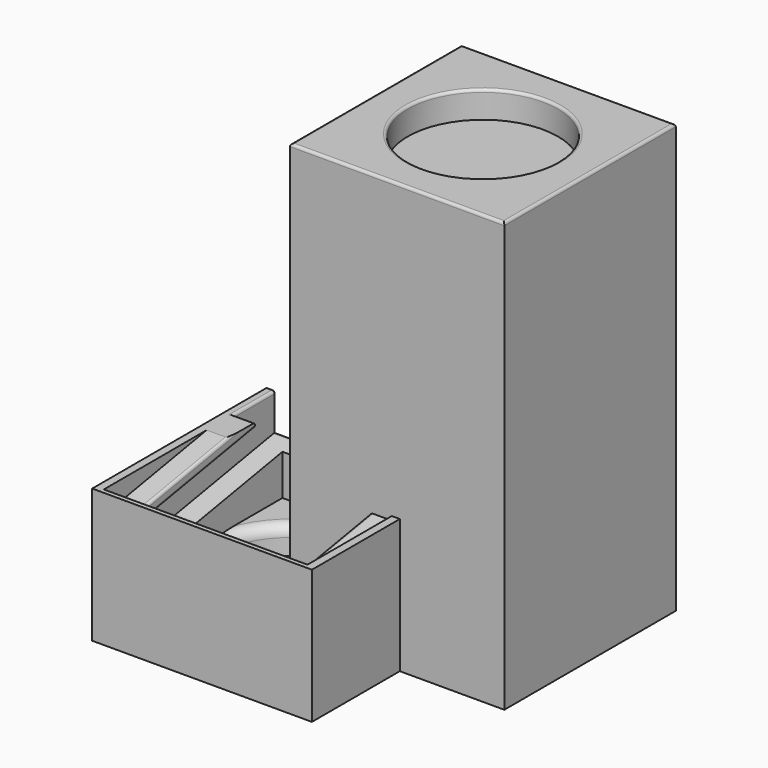
from build123d import *

# Parameters (mm, degrees)
CYLINDER_R             = 28
CYLINDER_DEPTH         = 10
BOX003_W               = 78
BOX003_H               = 78
BOX003_DEPTH           = 18
BOX004_W               = 80.5
BOX004_H               = 80.5
BOX004_DEPTH           = 18
BOX_W                  = 82
BOX_H                  = 82
BOX_DEPTH              = 20
FILLET_1_R             = 4
FILLET_2_R             = 1
BOX011_W               = 60
BOX011_H               = 70
BOX011_DEPTH           = 90
BOX012_W               = 76
BOX012_H               = 90
BOX012_DEPTH           = 15
BOX012_PLACEMENT_ANGLE = 10
BOX010_W               = 76
BOX010_H               = 90
BOX010_DEPTH           = 15
BOX010_PLACEMENT_ANGLE = 10
BOX008_W               = 78
BOX008_H               = 78
BOX008_DEPTH           = 18
BOX009_W               = 80.5
BOX009_H               = 80.5
BOX009_DEPTH           = 18
BOX007_W               = 82
BOX007_H               = 82
BOX007_DEPTH           = 50
FILLET001_R            = 1
BOX016_W               = 3
BOX016_H               = 3
BOX016_DEPTH           = 126
BOX017_W               = 3
BOX017_H               = 3
BOX017_DEPTH           = 126
BOX018_W               = 3
BOX018_H               = 3
BOX018_DEPTH           = 126
BOX019_W               = 3
BOX019_H               = 3
BOX019_DEPTH           = 126
BOX013_W               = 78.5
BOX013_H               = 78.5
BOX013_DEPTH           = 20
CYLINDER001_R          = 28
CYLINDER001_DEPTH      = 10
BOX014_W               = 75.4
BOX014_H               = 75.4
BOX014_DEPTH           = 126
BOX005_W               = 80
BOX005_H               = 80
BOX005_DEPTH           = 160
FILLET002_R            = 1


with BuildPart() as cylinder:
    # Cylinder → Cylinder (new body)
    with BuildSketch(Plane.XY.offset(10)):
        Circle(CYLINDER_R)
    extrude(amount=CYLINDER_DEPTH)


with BuildPart() as cube003:
    # Box003 → Box003 (new body)
    with BuildSketch(Plane(origin=(-39, -39, 0), x_dir=(1, 0, 0), z_dir=(0, 0, 1))):
        with Locations((39, 39)):
            Rectangle(BOX003_W, BOX003_H)
    extrude(amount=BOX003_DEPTH)


with BuildPart() as cube004:
    # Box004 → Box004 (new body)
    with BuildSketch(Plane(origin=(-40.25, -40.25, 0), x_dir=(1, 0, 0), z_dir=(0, 0, 1))):
        with Locations((40.25, 40.25)):
            Rectangle(BOX004_W, BOX004_H)
    extrude(amount=BOX004_DEPTH)


with BuildPart() as obj1:
    # Box → Box (new body)
    with BuildSketch(Plane(origin=(-41, -41, 0), x_dir=(1, 0, 0), z_dir=(0, 0, 1))):
        with Locations((41, 41)):
            Rectangle(BOX_W, BOX_H)
    extrude(amount=BOX_DEPTH)

    # Cut: cut Cube004
    add(cube004.part, mode=Mode.SUBTRACT)

    # Fusion: union Cube003
    add(cube003.part)

    # Cut001: cut Cylinder
    add(cylinder.part, mode=Mode.SUBTRACT)

    # Fillet 1
    fillet_1_edges = [obj1.edges().sort_by_distance(p)[0] for p in [
        (-28, 0, 20),
    ]]
    fillet(fillet_1_edges, radius=FILLET_1_R)

    # Fillet 2
    fillet_2_edges = [obj1.edges().sort_by_distance(p)[0] for p in [
        (-41, 0, 20),
        (0, -41, 20),
        (0, 41, 20),
        (41, 0, 20),
    ]]
    fillet(fillet_2_edges, radius=FILLET_2_R)


with BuildPart() as cube010:
    # Box011 → Box011 (new body)
    with BuildSketch(Plane(origin=(-30, -36, 2), x_dir=(1, 0, 0), z_dir=(0, 0, 1))):
        with Locations((30, 35)):
            Rectangle(BOX011_W, BOX011_H)
    extrude(amount=BOX011_DEPTH)


with BuildPart() as cube011:
    # Box012 → Box012 (new body)
    with BuildSketch(Plane.XY):
        with Locations((38, 45)):
            Rectangle(BOX012_W, BOX012_H)
    extrude(amount=BOX012_DEPTH)


with BuildPart() as cube011_1:
    # Box012 placement: moved
    add(cube011.part.moved(Location((-38, -37.869524, 41.798813))).rotate(Axis((-38, -37.869524, 41.798813), (1, 0, 0)), BOX012_PLACEMENT_ANGLE))


with BuildPart() as fusion002:
    # Box010 → Box010 (new body)
    with BuildSketch(Plane.XY):
        with Locations((38, 45)):
            Rectangle(BOX010_W, BOX010_H)
    extrude(amount=BOX010_DEPTH)


with BuildPart() as fusion002_1:
    # Box010 placement: moved
    add(fusion002.part.moved(Location((-38, -33.585401, 23.261114))).rotate(Axis((-38, -33.585401, 23.261114), (1, 0, 0)), BOX010_PLACEMENT_ANGLE))

    # Fusion002: union Cube010, Cube011
    add(cube010.part)
    add(cube011_1.part)


with BuildPart() as cube007:
    # Box008 → Box008 (new body)
    with BuildSketch(Plane(origin=(-39, -39, 0), x_dir=(1, 0, 0), z_dir=(0, 0, 1))):
        with Locations((39, 39)):
            Rectangle(BOX008_W, BOX008_H)
    extrude(amount=BOX008_DEPTH)


with BuildPart() as cube008:
    # Box009 → Box009 (new body)
    with BuildSketch(Plane(origin=(-40.25, -40.25, 0), x_dir=(1, 0, 0), z_dir=(0, 0, 1))):
        with Locations((40.25, 40.25)):
            Rectangle(BOX009_W, BOX009_H)
    extrude(amount=BOX009_DEPTH)


with BuildPart() as obj2:
    # Box007 → Box007 (new body)
    with BuildSketch(Plane(origin=(-41, -41, 0), x_dir=(1, 0, 0), z_dir=(0, 0, 1))):
        with Locations((41, 41)):
            Rectangle(BOX007_W, BOX007_H)
    extrude(amount=BOX007_DEPTH)

    # Cut002: cut Cube008
    add(cube008.part, mode=Mode.SUBTRACT)

    # Fusion001: union Cube007
    add(cube007.part)

    # Cut003: cut Fusion002
    add(fusion002_1.part, mode=Mode.SUBTRACT)

    # Fillet001
    fillet001_edges = [obj2.edges().sort_by_distance(p)[0] for p in [
        (-39.5, 41, 50),
        (-38, 36.3384, 50),
        (-34, 31.6768, 50),
        (34, 31.6768, 50),
        (38, 36.3384, 50),
        (39.5, 41, 50),
        (38, 41, 43.206266),
        (0, 41, 36.412533),
        (-38, 41, 43.206266),
        (-30, -2.1616, 44.033377),
        (30, -2.1616, 44.033377),
        (-30, -13.679141, 46.06423),
        (30, -13.679141, 46.06423),
    ]]
    fillet(fillet001_edges, radius=FILLET001_R)


with BuildPart() as obj3:
    # Box016 → Box016 (new body)
    with BuildSketch(Plane(origin=(1, 1, 20), x_dir=(1, 0, 0), z_dir=(0, 0, 1))):
        with Locations((1.5, 1.5)):
            Rectangle(BOX016_W, BOX016_H)
    extrude(amount=BOX016_DEPTH)


with BuildPart() as obj4:
    # Box017 → Box017 (new body)
    with BuildSketch(Plane(origin=(1, 76, 20), x_dir=(1, 0, 0), z_dir=(0, 0, 1))):
        with Locations((1.5, 1.5)):
            Rectangle(BOX017_W, BOX017_H)
    extrude(amount=BOX017_DEPTH)


with BuildPart() as obj5:
    # Box018 → Box018 (new body)
    with BuildSketch(Plane(origin=(76, 1, 20), x_dir=(1, 0, 0), z_dir=(0, 0, 1))):
        with Locations((1.5, 1.5)):
            Rectangle(BOX018_W, BOX018_H)
    extrude(amount=BOX018_DEPTH)


with BuildPart() as obj6:
    # Box019 → Box019 (new body)
    with BuildSketch(Plane(origin=(76, 76, 20), x_dir=(1, 0, 0), z_dir=(0, 0, 1))):
        with Locations((1.5, 1.5)):
            Rectangle(BOX019_W, BOX019_H)
    extrude(amount=BOX019_DEPTH)


with BuildPart() as obj7:
    # Box013 → Box013 (new body)
    with BuildSketch(Plane(origin=(0.75, 0.75, 0), x_dir=(1, 0, 0), z_dir=(0, 0, 1))):
        with Locations((39.25, 39.25)):
            Rectangle(BOX013_W, BOX013_H)
    extrude(amount=BOX013_DEPTH)


with BuildPart() as cylinder001:
    # Cylinder001 → Cylinder001 (new body)
    with BuildSketch(Plane(origin=(40, 40, 150), x_dir=(1, 0, 0), z_dir=(0, 0, 1))):
        Circle(CYLINDER001_R)
    extrude(amount=CYLINDER001_DEPTH)


with BuildPart() as fusion003:
    # Box014 → Box014 (new body)
    with BuildSketch(Plane(origin=(2.3, 2.3, 20), x_dir=(1, 0, 0), z_dir=(0, 0, 1))):
        with Locations((37.7, 37.7)):
            Rectangle(BOX014_W, BOX014_H)
    extrude(amount=BOX014_DEPTH)

    # Fusion003: union obj7, Cylinder001
    add(obj7.part)
    add(cylinder001.part)


with BuildPart() as obj8:
    # Box005 → Box005 (new body)
    with BuildSketch(Plane.XY):
        with Locations((40, 40)):
            Rectangle(BOX005_W, BOX005_H)
    extrude(amount=BOX005_DEPTH)

    # Cut004: cut Fusion003
    add(fusion003.part, mode=Mode.SUBTRACT)

    # Fillet002
    fillet002_edges = [obj8.edges().sort_by_distance(p)[0] for p in [
        (0, 40, 160),
        (40, 0, 160),
        (40, 80, 160),
        (80, 40, 160),
        (12, 40, 160),
    ]]
    fillet(fillet002_edges, radius=FILLET002_R)

    # Fusion004: union obj3, obj4, obj5, obj6
    add(obj3.part)
    add(obj4.part)
    add(obj5.part)
    add(obj6.part)


solid = Compound([obj1.part, obj2.part, obj8.part])
